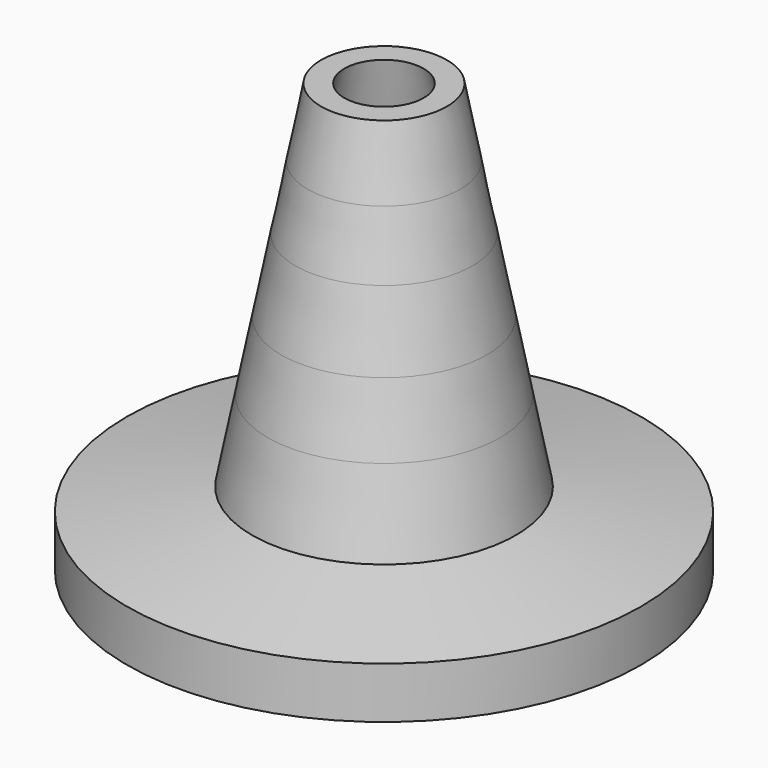
from build123d import *

# Parameters (mm, degrees)
F6_R     = 20.5438566313
F7_DEPTH = 63.501
F7_TAPER = 13


with BuildPart() as f1:
    # F0 (on Front) → F1 (revolve)
    with BuildSketch(Plane.XZ):
        Polygon((-11.2996962615, 53.34), (0, 53.34), (0, 63.5), (-9.3247923207, 63.5), align=None)
    revolve(axis=Axis((0, 0, 31.75), (0, 0, -1)))


with BuildPart() as f2:
    # F0 (on Front) → F2 (revolve)
    with BuildSketch(Plane.XZ):
        Polygon((-13.1264824068, 43.942), (0, 43.942), (0, 53.34), (-11.2996962615, 53.34), align=None)
    revolve(axis=Axis((0, 0, 31.75), (0, 0, -1)))


with BuildPart() as f3:
    # F0 (on Front) → F3 (revolve)
    with BuildSketch(Plane.XZ):
        Polygon((-15.2495041432, 33.02), (0, 33.02), (0, 43.942), (-13.1264824068, 43.942), align=None)
    revolve(axis=Axis((0, 0, 31.75), (0, 0, -1)))


with BuildPart() as f4:
    # F0 (on Front) → F4 (revolve)
    with BuildSketch(Plane.XZ):
        Polygon((-17.224408084, 22.86), (0, 22.86), (0, 33.02), (-15.2495041432, 33.02), align=None)
    revolve(axis=Axis((0, 0, 31.75), (0, 0, -1)))


with BuildPart() as f5:
    # F0 (on Front) → F5 (revolve)
    with BuildSketch(Plane.XZ):
        Polygon((-38.1, 7.62), (-38.1, 0), (0, 0), (0, 22.86), (-17.224408084, 22.86), (-19.5510066523, 10.8906879922), align=None)
    revolve(axis=Axis((0, 0, 31.75), (0, 0, -1)))


with BuildPart() as f7_tool:
    # F6 (on face) → F7 (new body, through all)
    with BuildSketch(Plane(origin=(0, 0, 0), x_dir=(1, 0, 0), z_dir=(0, 0, -1))):
        Circle(F6_R)
    extrude(amount=-F7_DEPTH, taper=F7_TAPER)


with BuildPart() as f1_1:
    add(f1.part)

    # F7: cut by f7_tool
    add(f7_tool.part, mode=Mode.SUBTRACT)


with BuildPart() as f2_1:
    add(f2.part)

    # F7: cut by f7_tool
    add(f7_tool.part, mode=Mode.SUBTRACT)


with BuildPart() as f3_1:
    add(f3.part)

    # F7: cut by f7_tool
    add(f7_tool.part, mode=Mode.SUBTRACT)


with BuildPart() as f4_1:
    add(f4.part)

    # F7: cut by f7_tool
    add(f7_tool.part, mode=Mode.SUBTRACT)


with BuildPart() as f5_1:
    add(f5.part)

    # F7: cut by f7_tool
    add(f7_tool.part, mode=Mode.SUBTRACT)


solid = Compound([f1_1.part, f2_1.part, f3_1.part, f4_1.part, f5_1.part])
